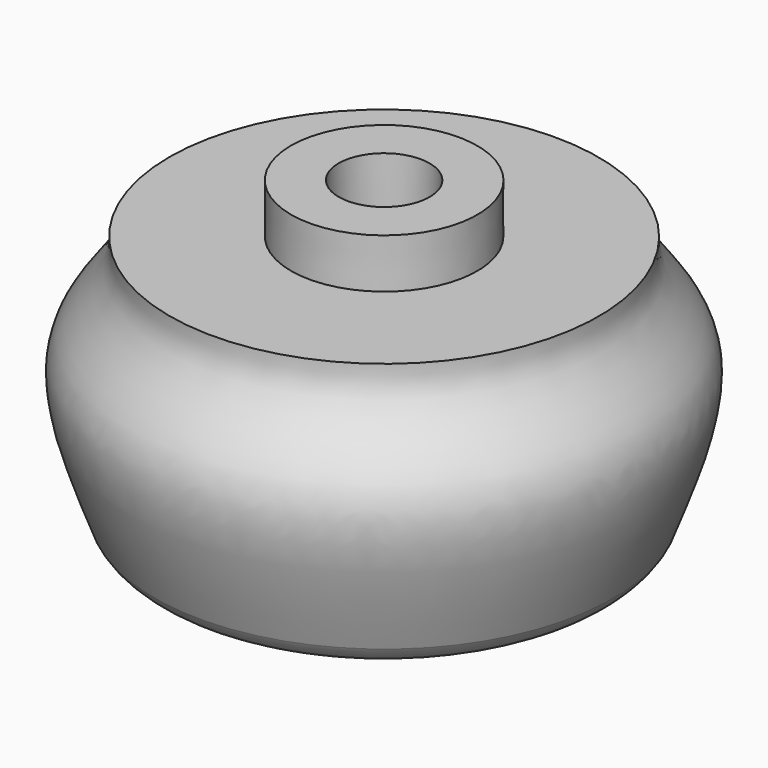
from build123d import *


with BuildPart() as f1:
    # F0 (on Front) → F1 (revolve)
    with BuildSketch(Plane.XZ):
        with BuildLine():
            Line((-5.3820300382, -4.3547645698), (-5.3820300382, 5.5512354302))
            Line((-5.3820300382, 5.5512354302), (-10.7278783922, 5.5512354302))
            Line((-10.7278783922, 5.5512354302), (-10.7278783922, 0))
            Line((-10.7278783922, 0), (-24.3437886806, 0))
            add(Edge.make_bspline(
                [(-24.3437886806, 0), (-23.7079065261, -4.8707163927), (-33.8049715487, -8.5069227731), (-27.3611923672, -23.589880631), (-26.04145393, -27.2503205479)],
                knots=[0, 0, 0, 0, 0.465556486, 0.8376713872, 0.8376713872, 0.8376713872, 0.8376713872], degree=3))
            ThreePointArc((-26.04145393, -27.2503205479), (-24.1768064595, -29.1631225156), (-21.5995118727, -29.8654573145))
            Line((-21.5995118727, -29.8654573145), (-4.431924179, -29.8654573145))
            Line((-4.431924179, -29.8654573145), (-2.9272936301, -31.887967709))
            Line((-2.9272936301, -31.887967709), (-1.4636468151, -32.0871829958))
            Line((-1.4636468151, -32.0871829958), (-1.4636468151, -16.3080489469))
            Line((-1.4636468151, -16.3080489469), (-0.3168240062, -16.3080489469))
            Line((-0.3168240062, -16.3080489469), (-0.3021925904, -4.3954032724))
            Line((-0.3021925904, -4.3954032724), (-5.3820300382, -4.3547645698))
        make_face()
    revolve(axis=Axis((-0.3095082983, 0, -10.3517261096), (-0.0012282246, 0, -0.9999992457)))


solid = f1.part
